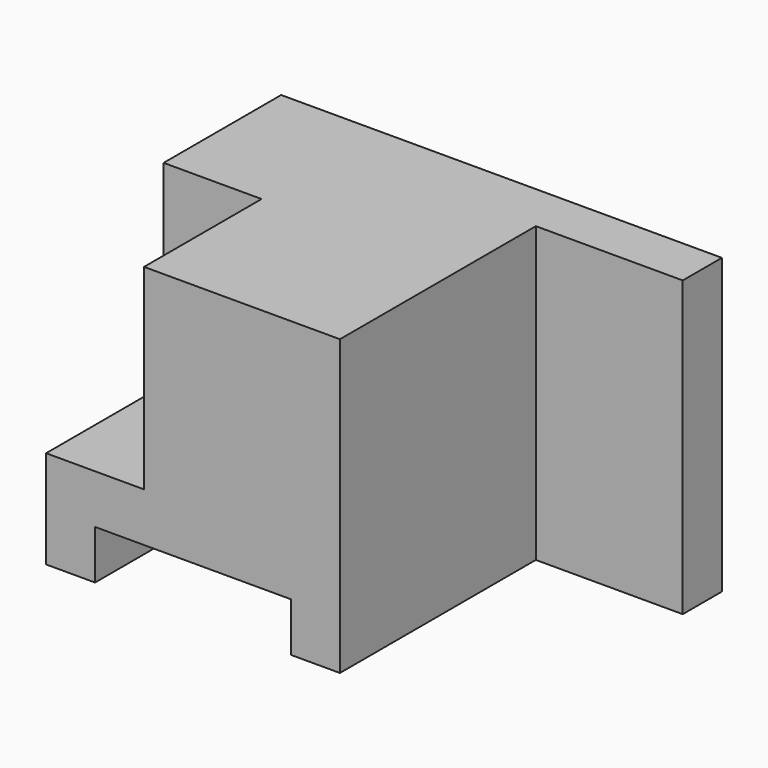
from build123d import *

# Parameters (mm, degrees)
F1_DEPTH = 60
F0_W     = 30
F0_H     = 60
F2_DEPTH = 10
F0_W_2   = 20
F0_H_2   = 40
F3_DEPTH = 30


with BuildPart() as f1:
    # F0 (on Front) → F1 (new body)
    with BuildSketch(Plane.XZ):
        Polygon((15, -30), (15, 30), (-25, 30), (-25, -10), (-45, -10), (-45, -30), (-35, -30), (-35, -20), (5, -20), (5, -30), align=None)
    extrude(amount=F1_DEPTH)

    # F0 (on Front) → F2 (join)
    with BuildSketch(Plane.XZ):
        with Locations((30, 0)):
            Rectangle(F0_W, F0_H)
    extrude(amount=F2_DEPTH)

    # F0 (on Front) → F3 (join)
    with BuildSketch(Plane.XZ):
        with Locations((-35, 10)):
            Rectangle(F0_W_2, F0_H_2)
    extrude(amount=F3_DEPTH)


solid = f1.part
